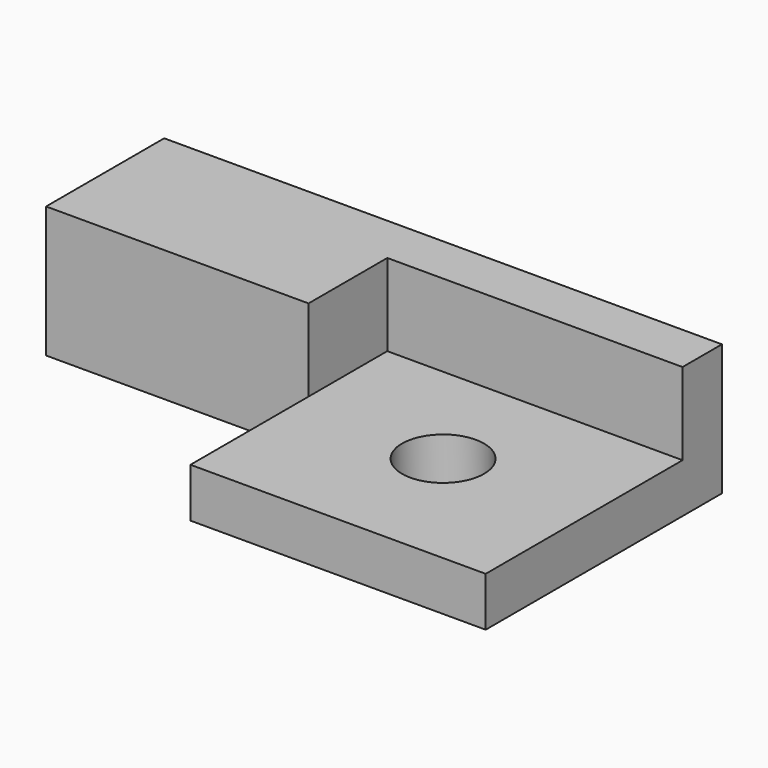
from build123d import *

# Parameters (mm, degrees)
F0_R     = 2.5
F1_DEPTH = 8
F3_DEPTH = 5


with BuildPart() as f1:
    # F0 (on Top) → F1 (new body)
    with BuildSketch(Plane.XY):
        Polygon((-18, -18), (0, -18), (0, 0), (-34, 0), (-34, -9), (-18, -9), align=None)
        with Locations((-9, -10)):
            Circle(F0_R, mode=Mode.SUBTRACT)
    extrude(amount=F1_DEPTH)

    # F2 (on face) → F3 (cut)
    with BuildSketch(Plane.XY.offset(8)):
        Polygon((-18, -3), (-18, -9), (-18, -18), (0, -18), (0, -3), align=None)
    extrude(amount=-F3_DEPTH, mode=Mode.SUBTRACT)


solid = f1.part
